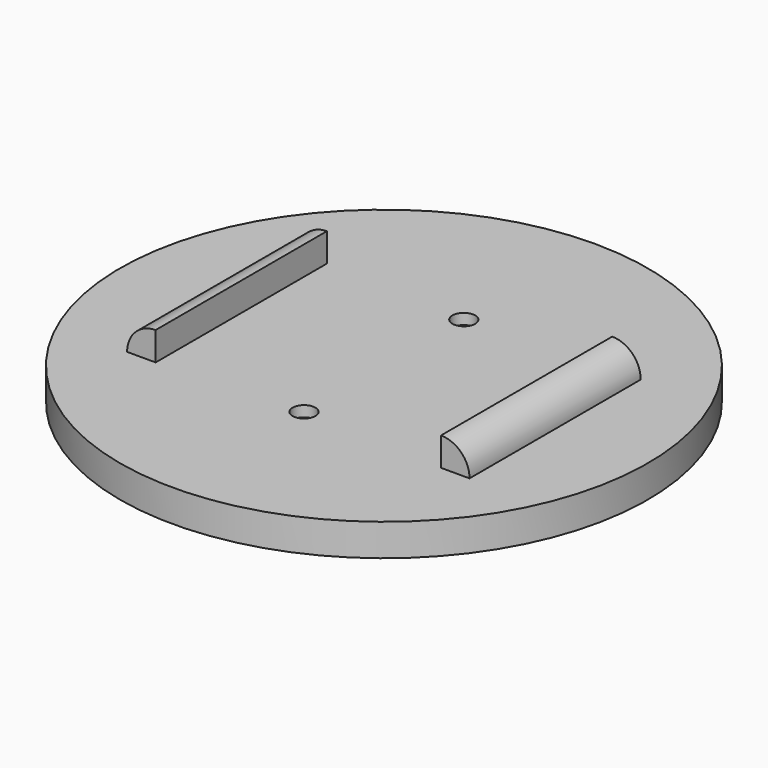
from build123d import *

# Parameters (mm, degrees)
F0_R      = 37
F1_DEPTH  = 4.5
F3_DEPTH  = 3.5
F5_DEPTH  = 15
F6_R      = 1.6
F7_DEPTH  = 4.501
F9_DEPTH  = 3
F11_ANGLE = 90


with BuildPart() as f1:
    # F0 (on Top) → F1 (new body)
    with BuildSketch(Plane.XY):
        Circle(F0_R)
    extrude(amount=F1_DEPTH)

    # F2 (on face) → F3 (cut)
    with BuildSketch(Plane(origin=(0, 0, 0), x_dir=(1, 0, 0), z_dir=(0, 0, -1))):
        with BuildLine():
            ThreePointArc((3.4798527268, -0.375), (3.4949595522, -0.1877704134), (3.5, 0))
            ThreePointArc((3.5, 0), (3.4949595522, 0.1877704134), (3.4798527268, 0.375))
            ThreePointArc((3.4798527268, 0.375), (2.3385358667, 2.604083332), (0, 3.5))
            ThreePointArc((0, 3.5), (-2.3385358667, 2.604083332), (-3.4798527268, 0.375))
            ThreePointArc((-3.4798527268, 0.375), (-3.5, 0), (-3.4798527268, -0.375))
            ThreePointArc((-3.4798527268, -0.375), (0, -3.5), (3.4798527268, -0.375))
        make_face()
        with BuildLine():
            ThreePointArc((0, 3.5), (2.3385358667, 2.604083332), (3.4798527268, 0.375))
            Line((3.4798527268, 0.375), (1.9884872724, 14.2142857143))
            ThreePointArc((1.9884872724, 14.2142857143), (1.9971197441, 14.1072973791), (2, 14))
            ThreePointArc((2, 14), (1.4142135624, 12.5857864376), (0, 12))
            Line((0, 12), (0, 3.5))
        make_face()
        with BuildLine():
            Line((1.9884872724, -14.2142857143), (3.4798527268, -0.375))
            ThreePointArc((3.4798527268, -0.375), (0, -3.5), (-3.4798527268, -0.375))
            Line((-3.4798527268, -0.375), (-1.9884872724, -14.2142857143))
            ThreePointArc((-1.9884872724, -14.2142857143), (-0.1072973791, -12.0028802559), (2, -14))
            ThreePointArc((2, -14), (1.9971197441, -14.1072973791), (1.9884872724, -14.2142857143))
        make_face()
        with BuildLine():
            ThreePointArc((-3.4798527268, 0.375), (-2.3385358667, 2.604083332), (0, 3.5))
            Line((0, 3.5), (0, 12))
            ThreePointArc((0, 12), (-1.4880476183, 12.6636937904), (-1.9884872724, 14.2142857143))
            Line((-1.9884872724, 14.2142857143), (-3.4798527268, 0.375))
        make_face()
        with BuildLine():
            ThreePointArc((2, 14), (1.9971197441, 14.1072973791), (1.9884872724, 14.2142857143))
            ThreePointArc((1.9884872724, 14.2142857143), (0, 16), (-1.9884872724, 14.2142857143))
            ThreePointArc((-1.9884872724, 14.2142857143), (-1.4880476183, 12.6636937904), (0, 12))
            ThreePointArc((0, 12), (1.4142135624, 12.5857864376), (2, 14))
        make_face()
        with BuildLine():
            ThreePointArc((-1.9884872724, -14.2142857143), (0, -16), (1.9884872724, -14.2142857143))
            ThreePointArc((1.9884872724, -14.2142857143), (1.9971197441, -14.1072973791), (2, -14))
            ThreePointArc((2, -14), (-0.1072973791, -12.0028802559), (-1.9884872724, -14.2142857143))
        make_face()
    extrude(amount=-F3_DEPTH, mode=Mode.SUBTRACT)

    # F4 (on Right) → F5 (join, symmetric)
    with BuildSketch(Plane.YZ):
        with BuildLine():
            ThreePointArc((-20, 8.5), (-22.8284271247, 7.3284271247), (-24, 4.5))
            Line((-24, 4.5), (-20, 4.5))
            Line((-20, 4.5), (-20, 8.5))
        make_face()
        with BuildLine():
            Line((20, 8.5), (20, 4.5))
            Line((20, 4.5), (24, 4.5))
            ThreePointArc((24, 4.5), (22.8284271247, 7.3284271247), (20, 8.5))
        make_face()
    extrude(amount=F5_DEPTH, both=True)

    # F6 (on face) → F7 (cut, through all)
    with BuildSketch(Plane.XY.offset(4.5)):
        with Locations((-14, 0)):
            Circle(F6_R)
        with Locations((14, 0)):
            Circle(F6_R)
    extrude(amount=-F7_DEPTH, mode=Mode.SUBTRACT)

    # F8 (on face) → F9 (cut)
    with BuildSketch(Plane(origin=(0, 0, 0), x_dir=(1, 0, 0), z_dir=(0, 0, -1))):
        Polygon((12.4122867597, 2.75), (10.8245735195, 0), (12.4122867597, -2.75), (15.5877132403, -2.75), (17.1754264805, 0), (15.5877132403, 2.75), align=None)
        Polygon((-12.4122867597, -2.75), (-10.8245735195, 0), (-12.4122867597, 2.75), (-15.5877132403, 2.75), (-17.1754264805, 0), (-15.5877132403, -2.75), align=None)
    extrude(amount=-F9_DEPTH, mode=Mode.SUBTRACT)


with BuildPart() as f1_1:
    # F11: moved
    add(f1.part.rotate(Axis((0, 0, 35.3244128637), (0, 0, 1)), F11_ANGLE))


solid = f1_1.part
